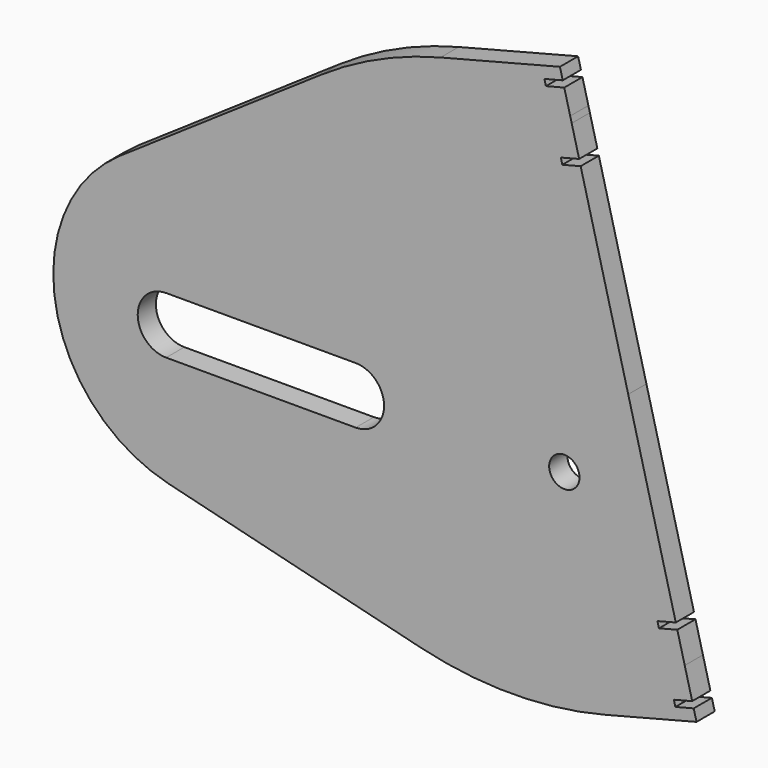
from build123d import *

# Parameters (mm, degrees)
F0_R     = 4
F1_DEPTH = 6


with BuildPart() as f1:
    # F0 (on Front) → F1 (new body)
    with BuildSketch(Plane.XZ):
        with BuildLine():
            Line((-1720.930447, -298.313854), (-1722.893975, -290.661759))
            Line((-1722.893975, -290.661759), (-1723.291652, -289.111968))
            Line((-1723.291652, -289.111968), (-1724.857504, -283.009664))
            Line((-1724.857504, -283.009664), (-1729.700602, -284.252404))
            Line((-1729.700602, -284.252404), (-1730.098279, -282.702613))
            Line((-1730.098279, -282.702613), (-1725.255181, -281.459873))
            Line((-1725.255181, -281.459873), (-1726.000825, -278.554014))
            Line((-1726.000825, -278.554014), (-1757.500297, -286.636784))
            ThreePointArc((-1757.500297, -286.636784), (-1773.807677, -292.363265), (-1788.885448, -300.812175))
            Line((-1788.885448, -300.812175), (-1842.169239, -337.053581))
            ThreePointArc((-1842.169239, -337.053581), (-1859.045222, -377.188566), (-1829.274885, -408.958723))
            Line((-1829.274885, -408.958723), (-1762.848777, -425.383911))
            ThreePointArc((-1762.848777, -425.383911), (-1738.406059, -428.306664), (-1713.989923, -425.169585))
            Line((-1713.989923, -425.169585), (-1689.961373, -419.003855))
            Line((-1689.961373, -419.003855), (-1690.707016, -416.097997))
            Line((-1690.707016, -416.097997), (-1695.550114, -417.340736))
            Line((-1695.550114, -417.340736), (-1695.947791, -415.790945))
            Line((-1695.947791, -415.790945), (-1691.104693, -414.548205))
            Line((-1691.104693, -414.548205), (-1693.068222, -406.896111))
            Line((-1693.068222, -406.896111), (-1695.031751, -399.244016))
            Line((-1695.031751, -399.244016), (-1699.874849, -400.486755))
            Line((-1699.874849, -400.486755), (-1700.272525, -398.936964))
            Line((-1700.272525, -398.936964), (-1695.429427, -397.694224))
            Line((-1695.429427, -397.694224), (-1707.981099, -348.778935))
            Line((-1707.981099, -348.778935), (-1720.53277, -299.863645))
            Line((-1720.53277, -299.863645), (-1725.375868, -301.106385))
            Line((-1725.375868, -301.106385), (-1725.773545, -299.556594))
            Line((-1725.773545, -299.556594), (-1720.930447, -298.313854))
        make_face()
        with BuildLine():
            ThreePointArc((-1829.898524, -379.89099), (-1837.398524, -372.39099), (-1829.898524, -364.89099))
            Line((-1829.898524, -364.89099), (-1779.898524, -364.89099))
            ThreePointArc((-1779.898524, -364.89099), (-1772.398524, -372.39099), (-1779.898524, -379.89099))
            Line((-1779.898524, -379.89099), (-1829.898524, -379.89099))
        make_face(mode=Mode.SUBTRACT)
        with Locations((-1724.839893, -372.274792)):
            Circle(F0_R, mode=Mode.SUBTRACT)
    extrude(amount=-F1_DEPTH)


solid = f1.part
